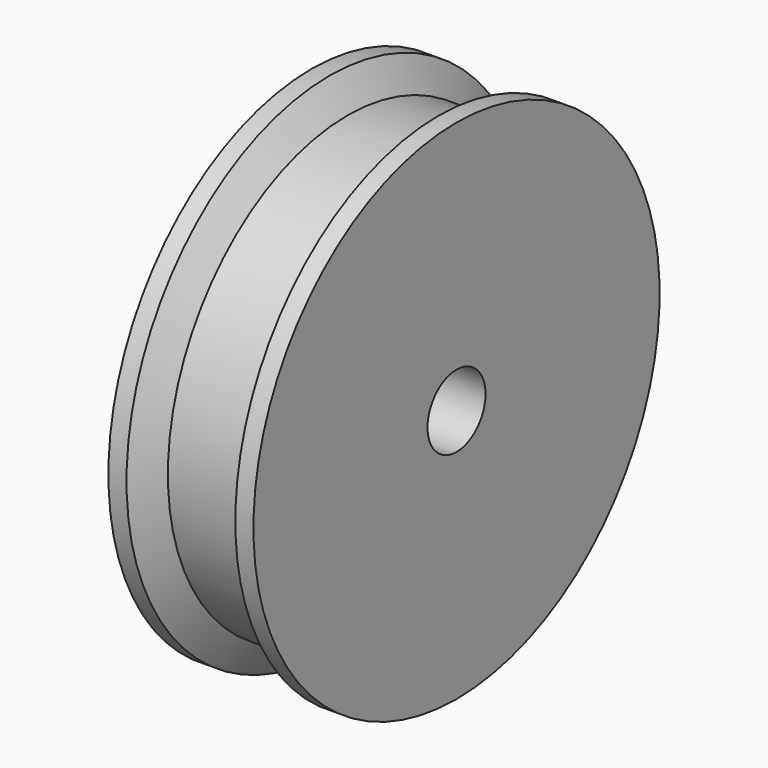
from build123d import *


with BuildPart() as f1:
    # F0 (on Front) → F1 (revolve)
    with BuildSketch(Plane.XZ):
        Polygon((-5, 10), (-5, 5), (-2.5, 5), (2.5, 5), (5, 5), (5, 10), (2.5, 10), (-2.5, 10), align=None)
        Polygon((-5, 15), (-5, 10), (-2.5, 10), (2.5, 10), (5, 10), (5, 15), (3.75, 15), (2.5, 13.000004), (-2.5, 13.000004), (-3.75, 15), align=None)
        Polygon((-5, 5), (-5, 0), (5, 0), (5, 5), (2.5, 5), (-2.5, 5), align=None)
    revolve(axis=Axis((1.506495, 0, -2.5), (1, 0, 0)))


solid = f1.part
